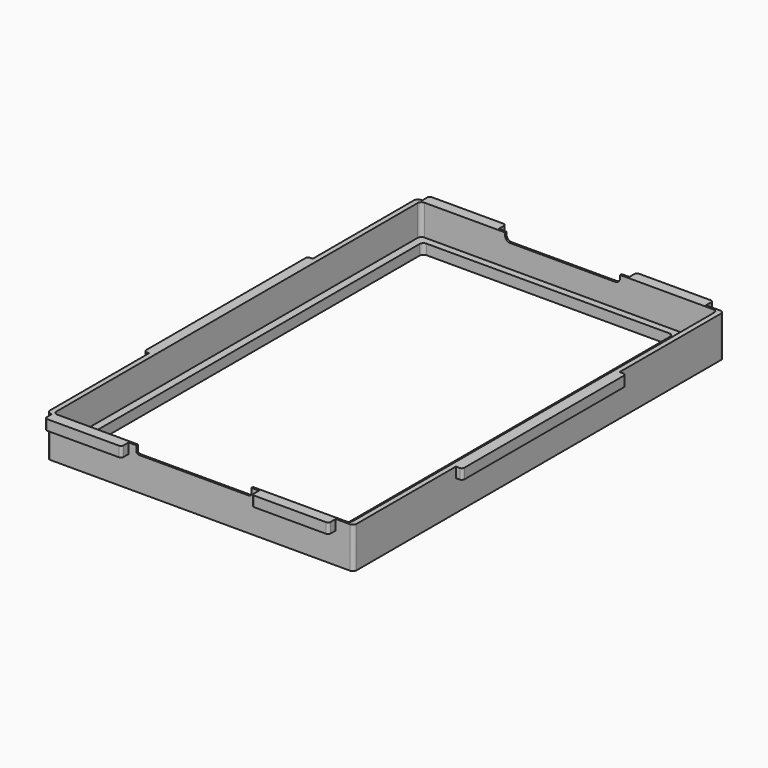
from build123d import *

# Parameters (mm, degrees)
BOX011_W      = 4
BOX011_H      = 80
BOX011_DEPTH  = 4
FILLET006_R   = 1
BOX010_W      = 30
BOX010_H      = 4
BOX010_DEPTH  = 4
FILLET007_R   = 1
BOX009_W      = 30
BOX009_H      = 4
BOX009_DEPTH  = 4
FILLET008_R   = 1
BOX008_W      = 30
BOX008_H      = 4
BOX008_DEPTH  = 4
FILLET009_R   = 1
BOX013_W      = 4
BOX013_H      = 80
BOX013_DEPTH  = 4
FILLET010_R   = 1
BOX012_W      = 30
BOX012_H      = 4
BOX012_DEPTH  = 4
FILLET005_R   = 1
BOX006_W      = 45
BOX006_H      = 10
BOX006_DEPTH  = 10
BOX007_W      = 45
BOX007_H      = 10
BOX007_DEPTH  = 10
FILLET004_1_R = 2
FILLET004_2_R = 1
BOX003_W      = 116
BOX003_H      = 179.5
BOX003_DEPTH  = 20
FILLET002_R   = 1.5
BOX002_W      = 120
BOX002_H      = 181
BOX002_DEPTH  = 12
FILLET003_R   = 1.5
BOX001_W      = 98
BOX001_H      = 173.5
BOX001_DEPTH  = 4
FILLET_R      = 1.5
BOX_W         = 120
BOX_H         = 181
BOX_DEPTH     = 4
FILLET001_R   = 1.5


with BuildPart() as fillet006:
    # Box011 → Box011 (new body)
    with BuildSketch(Plane(origin=(0, 50, 5), x_dir=(1, 0, 0), z_dir=(0, 0, 1))):
        with Locations((2, 40)):
            Rectangle(BOX011_W, BOX011_H)
    extrude(amount=BOX011_DEPTH)

    # Fillet006
    fillet006_edges = [fillet006.edges().sort_by_distance(p)[0] for p in [
        (0, 50, 7),
        (0, 130, 7),
    ]]
    fillet(fillet006_edges, radius=FILLET006_R)


with BuildPart() as fillet007:
    # Box010 → Box010 (new body)
    with BuildSketch(Plane(origin=(85, -3.5, 5), x_dir=(1, 0, 0), z_dir=(0, 0, 1))):
        with Locations((15, 2)):
            Rectangle(BOX010_W, BOX010_H)
    extrude(amount=BOX010_DEPTH)

    # Fillet007
    fillet007_edges = [fillet007.edges().sort_by_distance(p)[0] for p in [
        (85, -3.5, 7),
        (115, -3.5, 7),
    ]]
    fillet(fillet007_edges, radius=FILLET007_R)


with BuildPart() as fillet008:
    # Box009 → Box009 (new body)
    with BuildSketch(Plane(origin=(4, 180.5, 5), x_dir=(1, 0, 0), z_dir=(0, 0, 1))):
        with Locations((15, 2)):
            Rectangle(BOX009_W, BOX009_H)
    extrude(amount=BOX009_DEPTH)

    # Fillet008
    fillet008_edges = [fillet008.edges().sort_by_distance(p)[0] for p in [
        (4, 184.5, 7),
        (34, 184.5, 7),
    ]]
    fillet(fillet008_edges, radius=FILLET008_R)


with BuildPart() as fillet009:
    # Box008 → Box008 (new body)
    with BuildSketch(Plane(origin=(85, 180.5, 5), x_dir=(1, 0, 0), z_dir=(0, 0, 1))):
        with Locations((15, 2)):
            Rectangle(BOX008_W, BOX008_H)
    extrude(amount=BOX008_DEPTH)

    # Fillet009
    fillet009_edges = [fillet009.edges().sort_by_distance(p)[0] for p in [
        (85, 184.5, 7),
        (115, 184.5, 7),
    ]]
    fillet(fillet009_edges, radius=FILLET009_R)


with BuildPart() as fillet010:
    # Box013 → Box013 (new body)
    with BuildSketch(Plane(origin=(120.5, 50, 5), x_dir=(1, 0, 0), z_dir=(0, 0, 1))):
        with Locations((2, 40)):
            Rectangle(BOX013_W, BOX013_H)
    extrude(amount=BOX013_DEPTH)

    # Fillet010
    fillet010_edges = [fillet010.edges().sort_by_distance(p)[0] for p in [
        (124.5, 50, 7),
        (124.5, 130, 7),
    ]]
    fillet(fillet010_edges, radius=FILLET010_R)


with BuildPart() as fusion002:
    # Box012 → Box012 (new body)
    with BuildSketch(Plane(origin=(4, -3.5, 5), x_dir=(1, 0, 0), z_dir=(0, 0, 1))):
        with Locations((15, 2)):
            Rectangle(BOX012_W, BOX012_H)
    extrude(amount=BOX012_DEPTH)

    # Fillet005
    fillet005_edges = [fusion002.edges().sort_by_distance(p)[0] for p in [
        (4, -3.5, 7),
        (34, -3.5, 7),
    ]]
    fillet(fillet005_edges, radius=FILLET005_R)

    # Fusion002: union Fillet006, Fillet007, Fillet008, Fillet009, Fillet010
    add(fillet006.part)
    add(fillet007.part)
    add(fillet008.part)
    add(fillet009.part)
    add(fillet010.part)


with BuildPart() as fusion002_1:
    # Fusion002 placement: moved
    add(fusion002.part.moved(Location((0, 0, 7))))


with BuildPart() as cube006:
    # Box006 → Box006 (new body)
    with BuildSketch(Plane(origin=(15, -5, 0), x_dir=(1, 0, 0), z_dir=(0, 0, 1))):
        with Locations((22.5, 5)):
            Rectangle(BOX006_W, BOX006_H)
    extrude(amount=BOX006_DEPTH)


with BuildPart() as fillet004:
    # Box007 → Box007 (new body)
    with BuildSketch(Plane(origin=(15, 175, 0), x_dir=(1, 0, 0), z_dir=(0, 0, 1))):
        with Locations((22.5, 5)):
            Rectangle(BOX007_W, BOX007_H)
    extrude(amount=BOX007_DEPTH)

    # Fusion: union Cube006
    add(cube006.part)


with BuildPart() as fillet004_1:
    # Fusion placement: moved
    add(fillet004.part.moved(Location((22, 0, 13))))

    # Fillet004 1
    fillet004_1_edges = [fillet004_1.edges().sort_by_distance(p)[0] for p in [
        (37, 180, 13),
        (82, 180, 13),
    ]]
    fillet(fillet004_1_edges, radius=FILLET004_1_R)

    # Fillet004 2
    fillet004_2_edges = [fillet004_1.edges().sort_by_distance(p)[0] for p in [
        (37, 0, 13),
        (82, 0, 13),
    ]]
    fillet(fillet004_2_edges, radius=FILLET004_2_R)


with BuildPart() as fillet002:
    # Box003 → Box003 (new body)
    with BuildSketch(Plane(origin=(4, 0.75, 4), x_dir=(1, 0, 0), z_dir=(0, 0, 1))):
        with Locations((58, 89.75)):
            Rectangle(BOX003_W, BOX003_H)
    extrude(amount=BOX003_DEPTH)

    # Fillet002
    fillet002_edges = [fillet002.edges().sort_by_distance(p)[0] for p in [
        (4, 0.75, 14),
        (4, 180.25, 14),
        (120, 0.75, 14),
        (120, 180.25, 14),
    ]]
    fillet(fillet002_edges, radius=FILLET002_R)


with BuildPart() as cut002:
    # Box002 → Box002 (new body)
    with BuildSketch(Plane(origin=(2, 0, 4), x_dir=(1, 0, 0), z_dir=(0, 0, 1))):
        with Locations((60, 90.5)):
            Rectangle(BOX002_W, BOX002_H)
    extrude(amount=BOX002_DEPTH)

    # Fillet003
    fillet003_edges = [cut002.edges().sort_by_distance(p)[0] for p in [
        (2, 0, 10),
        (2, 181, 10),
        (122, 0, 10),
        (122, 181, 10),
    ]]
    fillet(fillet003_edges, radius=FILLET003_R)

    # Cut001: cut Fillet002
    add(fillet002.part, mode=Mode.SUBTRACT)

    # Cut002: cut Fillet004
    add(fillet004_1.part, mode=Mode.SUBTRACT)


with BuildPart() as fillet_body:
    # Box001 → Box001 (new body)
    with BuildSketch(Plane(origin=(7, 4, 0), x_dir=(1, 0, 0), z_dir=(0, 0, 1))):
        with Locations((49, 86.75)):
            Rectangle(BOX001_W, BOX001_H)
    extrude(amount=BOX001_DEPTH)

    # Fillet
    fillet_edges = [fillet_body.edges().sort_by_distance(p)[0] for p in [
        (7, 4, 2),
        (7, 177.5, 2),
        (105, 4, 2),
        (105, 177.5, 2),
    ]]
    fillet(fillet_edges, radius=FILLET_R)


with BuildPart() as fusion003:
    # Box → Box (new body)
    with BuildSketch(Plane(origin=(2, 0, 0), x_dir=(1, 0, 0), z_dir=(0, 0, 1))):
        with Locations((60, 90.5)):
            Rectangle(BOX_W, BOX_H)
    extrude(amount=BOX_DEPTH)

    # Fillet001
    fillet001_edges = [fusion003.edges().sort_by_distance(p)[0] for p in [
        (2, 0, 2),
        (2, 181, 2),
        (122, 0, 2),
        (122, 181, 2),
    ]]
    fillet(fillet001_edges, radius=FILLET001_R)

    # Cut: cut Fillet body
    add(fillet_body.part, mode=Mode.SUBTRACT)

    # Fusion001: union Cut002
    add(cut002.part)

    # Fusion003: union Fusion002
    add(fusion002_1.part)


solid = fusion003.part
